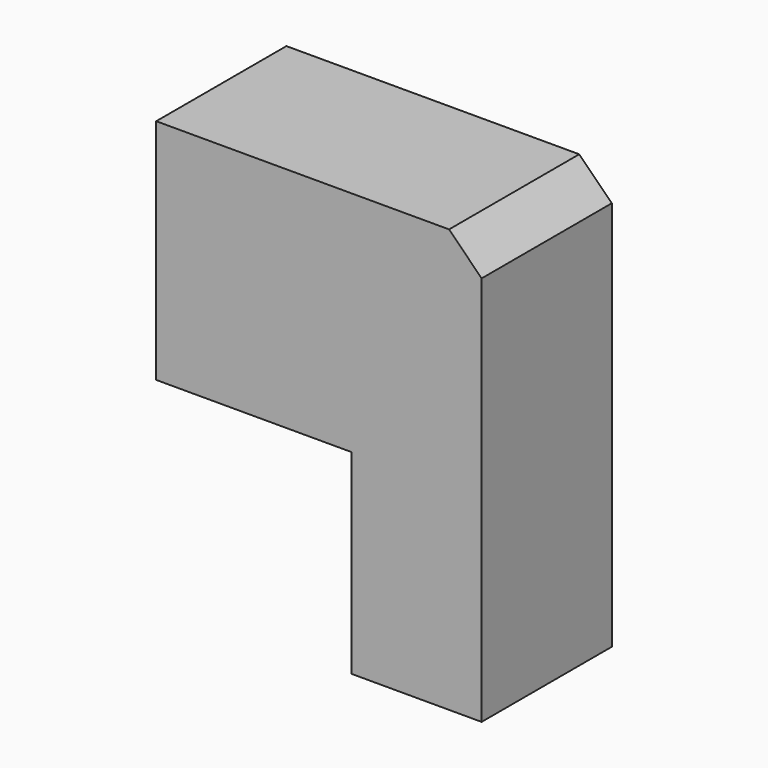
from build123d import *

# Parameters (mm, degrees)
F4_W     = 50
F4_H     = 65
F0_DEPTH = 25
F1_W     = 30
F1_H     = 30
F2_DEPTH = 25
F3_SIZE  = 5


with BuildPart() as f0:
    # F4 (on Front) → F0 (new body)
    with BuildSketch(Plane.XZ):
        with Locations((-5, 7.461506)):
            Rectangle(F4_W, F4_H)
    extrude(amount=F0_DEPTH)

    # F1 (on face) → F2 (cut)
    with BuildSketch(Plane.XZ.offset(25)):
        with Locations((-15, -10.038494)):
            Rectangle(F1_W, F1_H)
    extrude(amount=-F2_DEPTH, mode=Mode.SUBTRACT)

    # F3
    f3_edges = [f0.edges().sort_by_distance(p)[0] for p in [
        (20, -12.5, 39.961506),
    ]]
    chamfer(f3_edges, length=F3_SIZE)


solid = f0.part
